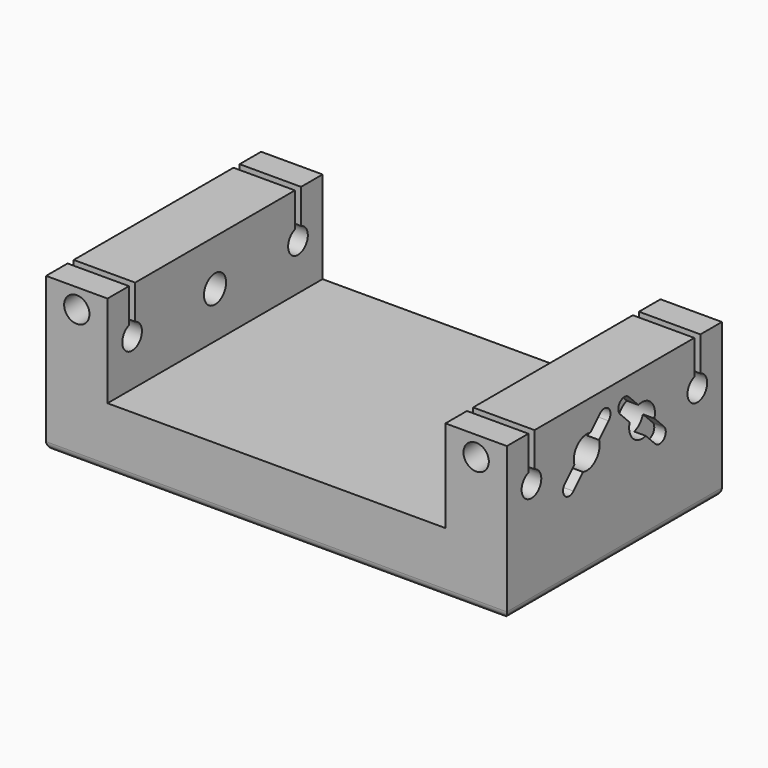
from build123d import *

# Parameters (mm, degrees)
PAD_DEPTH           = 17.5
SKETCH001_R         = 1.6
POCKET_DEPTH        = 30.001
POCKET_DEPTH_BACK   = 30.001
SKETCH009_R         = 2.1
POCKET002_DEPTH     = 10
POCKET006_DEPTH     = 1.5
SKETCH014_R         = 1.8
HOLE_DEPTH          = 10
HOLE001_D           = 3.2
HOLE001_DEPTH       = 9
HOLE001_CBORE_D     = 3.3
HOLE001_CBORE_DEPTH = 3.5
HOLE001_TIPS_R      = 1.6
HOLE002_D           = 3.2
HOLE002_DEPTH       = 9
HOLE002_CBORE_D     = 3.3
HOLE002_CBORE_DEPTH = 3.5
HOLE002_TIPS_R      = 1.6
SKETCH018_W         = 1
SKETCH018_H         = 7.240904
SKETCH018_H_2       = 8.067387
POCKET009_DEPTH     = 10
SKETCH019_W         = 1
SKETCH019_H         = 13.038261
SKETCH019_H_2       = 12.983065
POCKET010_DEPTH     = 10
FILLET_R            = 1


with BuildPart() as part:
    # Sketch → Pad (new body, symmetric)
    with BuildSketch(Plane.XZ):
        Polygon((-30, 20), (-30, 0), (30, 0), (30, 20), (22, 20), (22, 8), (-22, 8), (-22, 20), align=None)
    extrude(amount=PAD_DEPTH, both=True)

    # Sketch001 → Pocket (cut, two sides)
    with BuildSketch(Plane.YZ) as pocket_sk:
        with Locations((-13.5, 14)):
            Circle(SKETCH001_R)
        with Locations((13.5, 14)):
            Circle(SKETCH001_R)
    extrude(amount=-POCKET_DEPTH, mode=Mode.SUBTRACT)
    extrude(pocket_sk.sketch, amount=POCKET_DEPTH_BACK, mode=Mode.SUBTRACT)

    # Sketch009 (on DatumPlane) → Pocket002 (cut)
    with BuildSketch(Plane.YZ.offset(30)):
        with Locations((-4.5, 14)):
            Circle(SKETCH009_R)
        with Locations((4.5, 14)):
            Circle(SKETCH009_R)
    extrude(amount=-POCKET002_DEPTH, mode=Mode.SUBTRACT)

    # Sketch013 (on DatumPlane) → Pocket006 (cut)
    with BuildSketch(Plane.YZ.offset(30)):
        with BuildLine():
            ThreePointArc((-0.929111, 16.156676), (-0.929111, 17.570889), (-2.343324, 17.570889))
            Line((-2.343324, 17.570889), (-8.070889, 11.843324))
            ThreePointArc((-8.070889, 11.843324), (-8.070889, 10.429111), (-6.656676, 10.429111))
            Line((-6.656676, 10.429111), (-0.929111, 16.156676))
        make_face()
        with BuildLine():
            ThreePointArc((2.343324, 17.570889), (0.929111, 17.570889), (0.929111, 16.156676))
            Line((0.929111, 16.156676), (6.656676, 10.429111))
            ThreePointArc((6.656676, 10.429111), (8.070889, 10.429111), (8.070889, 11.843324))
            Line((8.070889, 11.843324), (2.343324, 17.570889))
        make_face()
    extrude(amount=-POCKET006_DEPTH, mode=Mode.SUBTRACT)

    # Sketch014 (on DatumPlane) → Hole (cut)
    with BuildSketch(Plane.YZ.offset(-30)):
        with Locations((0, 14)):
            Circle(SKETCH014_R)
    extrude(amount=HOLE_DEPTH, mode=Mode.SUBTRACT)

    # Hole001
    with Locations(Plane.XZ.offset(17.5)):
        with Locations((26, 17.441701), (-26, 17.441701)):
            CounterBoreHole(HOLE001_D / 2, HOLE001_CBORE_D / 2, HOLE001_CBORE_DEPTH, depth=HOLE001_DEPTH)

    # Hole001 tips → Hole001 tip 1 section 0
    with BuildSketch(Plane.XZ.offset(8.5), mode=Mode.PRIVATE) as hole001_tip_1_s0:
        with Locations((26, 17.441701)):
            Circle(HOLE001_TIPS_R)
    loft([hole001_tip_1_s0.sketch, Vertex(26, -7.538623, 17.441701)], mode=Mode.SUBTRACT)

    # Hole001 tips → Hole001 tip 2 section 0
    with BuildSketch(Plane.XZ.offset(8.5), mode=Mode.PRIVATE) as hole001_tip_2_s0:
        with Locations((-26, 17.441701)):
            Circle(HOLE001_TIPS_R)
    loft([hole001_tip_2_s0.sketch, Vertex(-26, -7.538623, 17.441701)], mode=Mode.SUBTRACT)

    # Hole002
    with Locations(Plane(origin=(0, 17.5, 0), x_dir=(-1, 0, 0), z_dir=(0, 1, 0))):
        with Locations((-26, 17.441701), (26, 17.441701)):
            CounterBoreHole(HOLE002_D / 2, HOLE002_CBORE_D / 2, HOLE002_CBORE_DEPTH, depth=HOLE002_DEPTH)

    # Hole002 tips → Hole002 tip 1 section 0
    with BuildSketch(Plane(origin=(0, 8.5, 0), x_dir=(-1, 0, 0), z_dir=(0, 1, 0)), mode=Mode.PRIVATE) as hole002_tip_1_s0:
        with Locations((-26, 17.441701)):
            Circle(HOLE002_TIPS_R)
    loft([hole002_tip_1_s0.sketch, Vertex(26, 7.538623, 17.441701)], mode=Mode.SUBTRACT)

    # Hole002 tips → Hole002 tip 2 section 0
    with BuildSketch(Plane(origin=(0, 8.5, 0), x_dir=(-1, 0, 0), z_dir=(0, 1, 0)), mode=Mode.PRIVATE) as hole002_tip_2_s0:
        with Locations((26, 17.441701)):
            Circle(HOLE002_TIPS_R)
    loft([hole002_tip_2_s0.sketch, Vertex(-26, 7.538623, 17.441701)], mode=Mode.SUBTRACT)

    # Sketch018 (on DatumPlane) → Pocket009 (cut)
    with BuildSketch(Plane.YZ.offset(-30)):
        with Locations((-13.5, 17.620452)):
            Rectangle(SKETCH018_W, SKETCH018_H)
        with Locations((13.5, 18.033693)):
            Rectangle(SKETCH018_W, SKETCH018_H_2)
    extrude(amount=POCKET009_DEPTH, mode=Mode.SUBTRACT)

    # Sketch019 (on DatumPlane) → Pocket010 (cut)
    with BuildSketch(Plane.YZ.offset(30)):
        with Locations((-13.5, 20.51913)):
            Rectangle(SKETCH019_W, SKETCH019_H)
        with Locations((13.5, 20.491532)):
            Rectangle(SKETCH019_W, SKETCH019_H_2)
    extrude(amount=-POCKET010_DEPTH, mode=Mode.SUBTRACT)

    # Fillet
    fillet_edges = [part.edges().sort_by_distance(p)[0] for p in [
        (0, 17.5, 0),
        (-30, 0, 0),
        (0, -17.5, 0),
        (30, 0, 0),
    ]]
    fillet(fillet_edges, radius=FILLET_R)


solid = part.part
